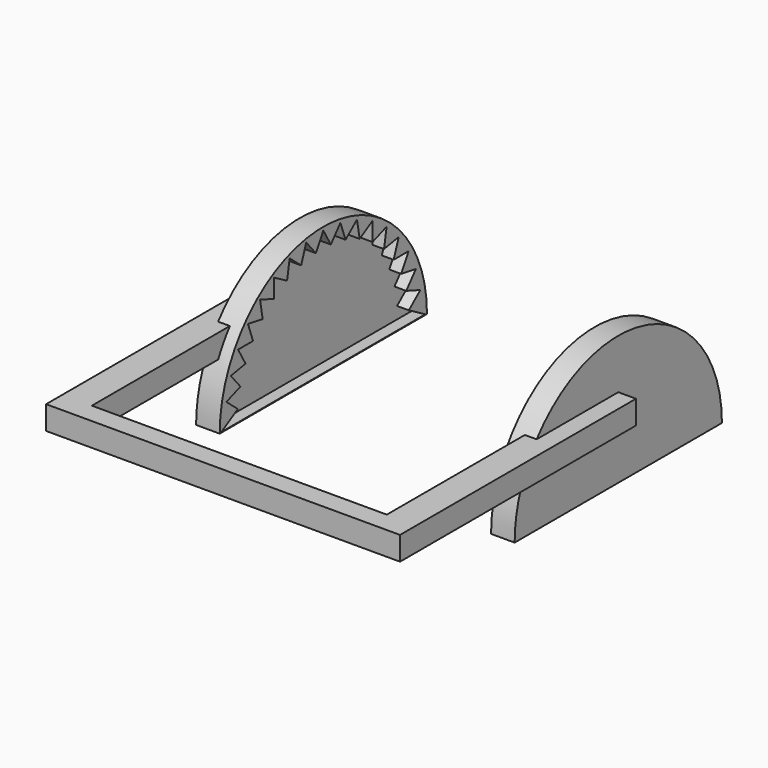
from build123d import *

# Parameters (mm, degrees)
F0_W      = 40
F0_H      = 60
F1_DEPTH  = 20
F2_W      = 26
F2_H      = 58
F3_DEPTH  = 10
F5_DEPTH  = 5
F14_DEPTH = 4
F15_DEPTH = 2
F16_DEPTH = 4
F17_DEPTH = 2
F20_DEPTH = 2


with BuildPart() as f1:
    # F0 (on Top) → F1 (new body)
    with BuildSketch(Plane.XY):
        Rectangle(F0_W, F0_H)
    extrude(amount=F1_DEPTH)

    # F2 (on face) → F3 (cut)
    with BuildSketch(Plane.XY.offset(20)):
        with Locations((0, -1)):
            Rectangle(F2_W, F2_H)
    extrude(amount=-F3_DEPTH, mode=Mode.SUBTRACT)

    # F4 (on face) → F5 (join)
    with BuildSketch(Plane.YZ.offset(20)):
        Polygon((10, 17.3205080757), (7.368124542, 15.8009940716), (6.8404028665, 18.7938524157), (4.5123723483, 16.8404028665), (3.4729635533, 19.6961550602), (1.5195140041, 17.368124542), (0, 20), (-1.5195140041, 17.368124542), (-3.4729635533, 19.6961550602), (-4.5123723483, 16.8404028665), (-6.8404028665, 18.7938524157), (-7.368124542, 15.8009940716), (-10, 17.3205080757), (-10, 14.2814800674), (-12.8557521937, 15.3208888624), (-12.3280305182, 12.3280305182), (-15.3208888624, 12.8557521937), (-14.2814800674, 10), (-17.3205080757, 10), (-15.8009940716, 7.368124542), (-18.7938524157, 6.8404028665), (-16.8404028665, 4.5123723483), (-19.6961550602, 3.4729635533), (-17.368124542, 1.5195140041), (-20, 0), (20, 0), (17.368124542, 1.5195140041), (19.6961550602, 3.4729635533), (16.8404028665, 4.5123723483), (18.7938524157, 6.8404028665), (15.8009940716, 7.368124542), (17.3205080757, 10), (14.2814800674, 10), (15.3208888624, 12.8557521937), (12.3280305182, 12.3280305182), (12.8557521937, 15.3208888624), (10, 14.2814800674), align=None)
    extrude(amount=F5_DEPTH)

    # F6: F1 across plane


with BuildPart() as f1_1:
    add(f1.part)
    add(f1.part.mirror(Plane.YZ))


with BuildPart() as f14:
    # F12 (on offset) → F14 (new body)
    with BuildSketch(Plane.YZ.offset(-23)):
        with BuildLine():
            Line((-21.9604505755, -11.5237375721), (21.9604505755, -11.5237375721))
            ThreePointArc((21.9604505755, -11.5237375721), (0, 10.4367130033), (-21.9604505755, -11.5237375721))
        make_face()
    extrude(amount=-F14_DEPTH)


with BuildPart() as f15_tool:
    # F10 (on offset) → F15 (new body)
    with BuildSketch(Plane.YZ.offset(-23)):
        Polygon((13.4108637106, 4.9916980332), (10.4318001067, 3.9074075554), (10.4318001067, 7.0776608255), (7.6862802384, 5.4925341904), (7.1357715353, 8.6146241898), (4.7072166344, 6.5768246682), (3.6229261566, 9.5558882722), (1.585126635, 7.1273333713), (0, 9.8728532397), (-1.585126635, 7.1273333713), (-3.6229261566, 9.5558882722), (-4.7072166344, 6.5768246682), (-7.1357715353, 8.6146241898), (-7.6862802384, 5.4925341904), (-10.4318001067, 7.0776608255), (-10.4318001067, 3.9074075554), (-13.4108637106, 4.9916980332), (-12.8603550075, 1.8696080338), (-15.9824450069, 2.4201167369), (-14.8981545291, -0.558946867), (-18.0684077992, -0.558946867), (-16.4832811642, -3.3044667354), (-19.6053711636, -3.8549754385), (-17.567571642, -6.2835303393), (-20.5466352459, -7.3678208171), (-18.1180803451, -9.4056203387), (-21.6114999369, -11.4225470804), (21.6114999369, -11.4225470804), (18.1180803451, -9.4056203387), (20.5466352459, -7.3678208171), (17.567571642, -6.2835303393), (19.6053711636, -3.8549754385), (16.4832811642, -3.3044667354), (18.0684077992, -0.558946867), (14.8981545291, -0.558946867), (15.9824450069, 2.4201167369), (12.8603550075, 1.8696080338), align=None)
    extrude(amount=-F15_DEPTH)


with BuildPart() as f1_2:
    add(f1_1.part)

    # F15: cut by f15_tool
    add(f15_tool.part, mode=Mode.SUBTRACT)


with BuildPart() as f14_1:
    add(f14.part)

    # F15: cut by f15_tool
    add(f15_tool.part, mode=Mode.SUBTRACT)



with BuildPart() as f16:
    # F13 (on offset) → F16 (new body)
    with BuildSketch(Plane.YZ.offset(23)):
        with BuildLine():
            Line((-21.9604505755, -11.5237375721), (21.9604505755, -11.5237375721))
            ThreePointArc((21.9604505755, -11.5237375721), (0, 10.4367130033), (-21.9604505755, -11.5237375721))
        make_face()
    extrude(amount=F16_DEPTH)


with BuildPart() as f17_tool:
    # F11 (on offset) → F17 (new body)
    with BuildSketch(Plane.YZ.offset(23)):
        Polygon((13.4108637106, 5.0649986808), (10.4318001067, 3.980708203), (10.4318001067, 7.1509614731), (7.6862802384, 5.565834838), (7.1357715353, 8.6879248374), (4.7072166344, 6.6501253158), (3.6229261566, 9.6291889197), (1.585126635, 7.2006340189), (0, 9.9461538872), (-1.585126635, 7.2006340189), (-3.6229261566, 9.6291889197), (-4.7072166344, 6.6501253158), (-7.1357715353, 8.6879248374), (-7.6862802384, 5.565834838), (-10.4318001067, 7.1509614731), (-10.4318001067, 3.980708203), (-13.4108637106, 5.0649986808), (-12.8603550075, 1.9429086814), (-15.9824450069, 2.4934173845), (-14.8981545291, -0.4856462195), (-18.0684077992, -0.4856462195), (-16.4832811642, -3.2311660878), (-19.6053711636, -3.7816747909), (-17.567571642, -6.2102296917), (-20.5466352459, -7.2945201695), (-18.1180803451, -9.3323196911), (-21.6114999369, -11.3492464328), (21.6114999369, -11.3492464328), (18.1180803451, -9.3323196911), (20.5466352459, -7.2945201695), (17.567571642, -6.2102296917), (19.6053711636, -3.7816747909), (16.4832811642, -3.2311660878), (18.0684077992, -0.4856462195), (14.8981545291, -0.4856462195), (15.9824450069, 2.4934173845), (12.8603550075, 1.9429086814), align=None)
    extrude(amount=F17_DEPTH)


with BuildPart() as f1_3:
    add(f1_2.part)

    # F17: cut by f17_tool
    add(f17_tool.part, mode=Mode.SUBTRACT)


with BuildPart() as f16_1:
    add(f16.part)

    # F17: cut by f17_tool
    add(f17_tool.part, mode=Mode.SUBTRACT)


with BuildPart() as f14_2:
    add(f14_1.part)

    add(f16_1.part)  # F20 merges F16
    # F19 (on Top) → F20 (join, symmetric)
    with BuildSketch(Plane.XY):
        Polygon((-25, 0), (-30, 0), (-30, -50), (30, -50), (30, 0), (25, 0), (25, -46.5494953096), (-25, -46.5494953096), align=None)
    extrude(amount=F20_DEPTH, both=True)


solid = f14_2.part
